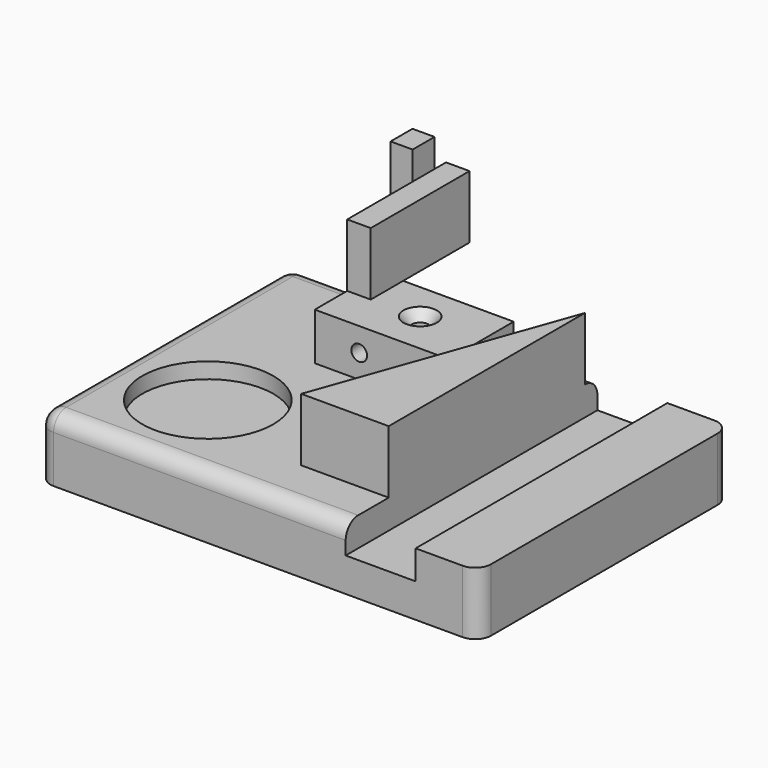
from build123d import *

# Parameters (mm, degrees)
F1_DEPTH        = 25.4
F2_R            = 26.447214
F3_DEPTH        = 6.35
F4_W            = 28.229706
F4_H            = 11.726034
F5_DEPTH        = 127
F6_W            = 54.077805
F6_H            = 32.745095
F7_DEPTH        = 19.05
F8_R            = 6.35
F10_D           = 6.7564
F10_CSINK_D     = 13.4874
F10_CSINK_ANGLE = 82
F12_D           = 6.35
F16_DEPTH       = 25.4
F14_W           = 8.893858
F14_H           = 11.061027
F14_W_2         = 9.481337
F14_H_2         = 49.850044
F15_DEPTH       = 25.4


with BuildPart() as f1:
    # F0 (on Top) → F1 (new body)
    with BuildSketch(Plane.XY):
        with BuildLine():
            Line((-82.55, -63.5), (82.55, -63.5))
            ThreePointArc((82.55, -63.5), (87.040128, -61.640128), (88.9, -57.15))
            Line((88.9, -57.15), (88.9, 57.15))
            ThreePointArc((88.9, 57.15), (87.040128, 61.640128), (82.55, 63.5))
            Line((82.55, 63.5), (-82.55, 63.5))
            ThreePointArc((-82.55, 63.5), (-87.040128, 61.640128), (-88.9, 57.15))
            Line((-88.9, 57.15), (-88.9, -57.15))
            ThreePointArc((-88.9, -57.15), (-87.040128, -61.640128), (-82.55, -63.5))
        make_face()
    extrude(amount=F1_DEPTH)

    # F2 (on face) → F3 (cut)
    with BuildSketch(Plane.XY.offset(25.4)):
        with Locations((-50.8, -25.4)):
            Circle(F2_R)
    extrude(amount=-F3_DEPTH, mode=Mode.SUBTRACT)

    # F4 (on face) → F5 (cut)
    with BuildSketch(Plane.XZ.offset(63.5)):
        with Locations((49.442876, 19.536983)):
            Rectangle(F4_W, F4_H)
    extrude(amount=-F5_DEPTH, mode=Mode.SUBTRACT)

    # F6 (on face) → F7 (join)
    with BuildSketch(Plane.XY.offset(25.4)):
        with Locations((-13.139165, 31.671505)):
            Rectangle(F6_W, F6_H)
    extrude(amount=F7_DEPTH)

    # F8
    f8_edges = [f1.edges().sort_by_distance(p)[0] for p in [
        (-23.610988, -63.5, 25.4),
    ]]
    fillet(f8_edges, radius=F8_R)

    # F10 (through all)
    with Locations(Plane.XY.offset(44.45)):
        with Locations((-11.305165, 32.355733)):
            CounterSinkHole(F10_D / 2, F10_CSINK_D / 2, counter_sink_angle=F10_CSINK_ANGLE)

    # F12 (through all)
    with Locations(Plane.XZ.offset(-15.298957)):
        with Locations((-22.241747, 34.925)):
            Hole(F12_D / 2)

    # F13 (on face) → F16 (join)
    with BuildSketch(Plane.XY.offset(25.4)):
        Polygon((35.328023, 57.15), (0, -41.779853), (35.328023, -41.779853), align=None)
    extrude(amount=F16_DEPTH)

    # F14 (on face) → F15 (join)
    with BuildSketch(Plane.XY.offset(44.45)):
        with Locations((-58.318535, 87.307937)):
            Rectangle(F14_W, F14_H)
        with Locations((-35.437399, 56.596526)):
            Rectangle(F14_W_2, F14_H_2)
    extrude(amount=F15_DEPTH)


solid = f1.part
